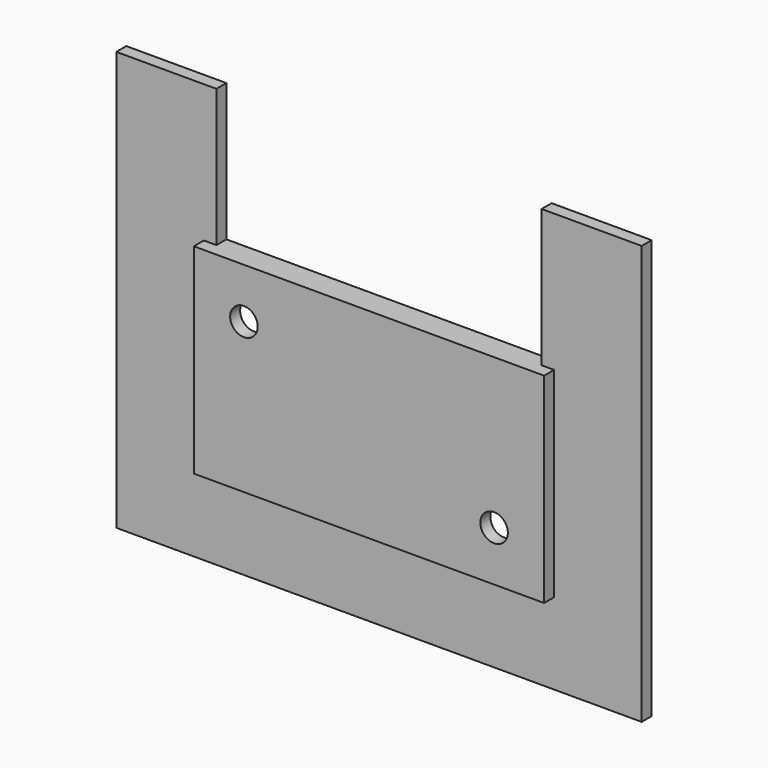
from build123d import *

# Parameters (mm, degrees)
PAD113_DEPTH    = 2
SKETCH171_W     = 24
SKETCH171_H     = 12
POCKET010_DEPTH = 1
SKETCH172_W     = 46.237046
SKETCH172_H     = 37.182623
SKETCH172_W_2   = 28
SKETCH172_H_2   = 16
POCKET011_DEPTH = 1
SKETCH301_R     = 1.1
POCKET046_DEPTH = 5


with BuildPart() as part:
    # Sketch170 → Pad113 (new body)
    with BuildSketch(Plane.XZ):
        Polygon((21, -5), (21, -38.5), (-21, -38.5), (-21, -5), (-13, -5), (-13, -16), (13, -16), (13, -5), align=None)
    extrude(amount=PAD113_DEPTH)

    # Sketch171 (on Face9 of Pad113) → Pocket010 (cut)
    with BuildSketch(Plane(origin=(0, 0, 0), x_dir=(1, 0, 0), z_dir=(0, 1, 0))):
        with Locations((0, 24)):
            Rectangle(SKETCH171_W, SKETCH171_H)
    extrude(amount=-POCKET010_DEPTH, mode=Mode.SUBTRACT)

    # Sketch172 (on Face5 of Pocket010) → Pocket011 (cut)
    with BuildSketch(Plane.XZ.offset(2)):
        with Locations((0, -21.400319)):
            Rectangle(SKETCH172_W, SKETCH172_H)
        with Locations((0, -24)):
            Rectangle(SKETCH172_W_2, SKETCH172_H_2, mode=Mode.SUBTRACT)
    extrude(amount=-POCKET011_DEPTH, mode=Mode.SUBTRACT)

    # Sketch301 (on Face22 of Pocket011) → Pocket046 (cut)
    with BuildSketch(Plane.XZ.offset(2)):
        with Locations((10, -28)):
            Circle(SKETCH301_R)
        with Locations((-10, -20)):
            Circle(SKETCH301_R)
    extrude(amount=-POCKET046_DEPTH, mode=Mode.SUBTRACT)


with BuildPart() as part_1:
    # Body013 placement: moved
    add(part.part.moved(Location((0, 7.5, 0))))


solid = part_1.part
